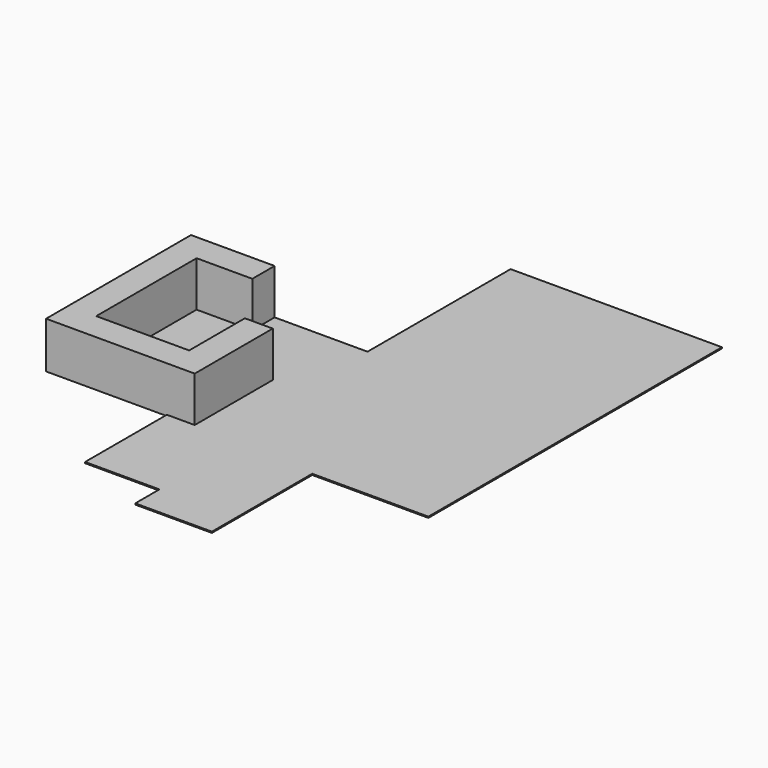
from build123d import *

# Parameters (mm, degrees)
F2_DEPTH = 25
F3_DEPTH = 1000


with BuildPart() as f2:
    # F1 (on face) → F2 (new body)
    with BuildSketch(Plane.XY):
        Polygon((-4550, 7900), (-4550, 4050), (-6550, 4050), (-6550, 3450), (-7750, 3450), (-7750, 750), (-5750, 750), (-5750, 2250), (-5150, 2250), (-5150, 150), (-5750, 150), (-5750, -2050), (-4150, -2050), (-4150, -2700), (-2500, -2700), (-2500, 0), (0, 0), (0, 7900), align=None)
    extrude(amount=F2_DEPTH)

    # F1 (on face) → F3 (join)
    with BuildSketch(Plane.XY):
        Polygon((-6550, 3450), (-6550, 4050), (-8350, 4050), (-8350, 150), (-5750, 150), (-5150, 150), (-5150, 2250), (-5750, 2250), (-5750, 750), (-7750, 750), (-7750, 3450), align=None)
    extrude(amount=F3_DEPTH)


solid = f2.part
